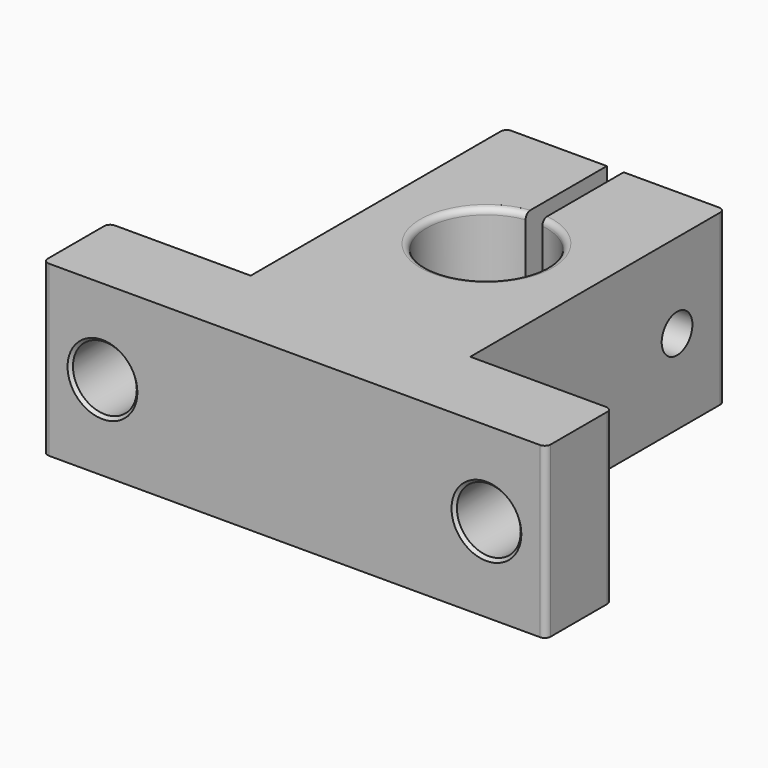
from build123d import *

# Parameters (mm, degrees)
F1_DEPTH = 14.1
F2_R     = 1.6
F3_DEPTH = 30.111
F4_R     = 4
F5_DEPTH = 4
F6_R     = 2.66
F7_DEPTH = 25
F8_R     = 2.125
F9_DEPTH = 5.85
F10_R    = 0.5
F11_SIZE = 0.25


with BuildPart() as f1:
    # F0 (on Top) → F1 (new body)
    with BuildSketch(Plane.XY):
        with BuildLine():
            ThreePointArc((0.7, 4.9507575178), (0, -5), (-0.7, 4.9507575178))
            Line((-0.7, 4.9507575178), (-0.7, 13.42))
            Line((-0.7, 13.42), (-9.15, 13.42))
            Line((-9.15, 13.42), (-9.15, -13.12))
            Line((-9.15, -13.12), (-20.96, -13.12))
            Line((-20.96, -13.12), (-20.96, -20))
            Line((-20.96, -20), (20.96, -20))
            Line((20.96, -20), (20.96, -13.12))
            Line((20.96, -13.12), (9.15, -13.12))
            Line((9.15, -13.12), (9.15, 13.42))
            Line((9.15, 13.42), (0.7, 13.42))
            Line((0.7, 13.42), (0.7, 4.9507575178))
        make_face()
    extrude(amount=F1_DEPTH)

    # F2 (on face) → F3 (cut, through all)
    with BuildSketch(Plane.YZ.offset(9.15)):
        with Locations((8.42, 7.05)):
            Circle(F2_R)
    extrude(amount=-F3_DEPTH, mode=Mode.SUBTRACT)

    # F4 (on face) → F5 (cut)
    with BuildSketch(Plane(origin=(-9.15, 0, 0), x_dir=(0, -1, 0), z_dir=(-1, 0, 0))):
        with Locations((-8.42, 7.05)):
            Circle(F4_R)
    extrude(amount=-F5_DEPTH, mode=Mode.SUBTRACT)

    # F6 (on face) → F7 (cut)
    with BuildSketch(Plane.XZ.offset(20)):
        with Locations((-16, 7.05)):
            Circle(F6_R)
        with Locations((16, 7.05)):
            Circle(F6_R)
    extrude(amount=-F7_DEPTH, mode=Mode.SUBTRACT)

    # F8 (on face) → F9 (cut, through all)
    with BuildSketch(Plane(origin=(-5.15, 0, 0), x_dir=(0, -1, 0), z_dir=(-1, 0, 0))):
        with Locations((-8.42, 7.05)):
            Circle(F8_R)
    extrude(amount=-F9_DEPTH, mode=Mode.SUBTRACT)

    # F10
    f10_edges = [f1.edges().sort_by_distance(p)[0] for p in [
        (-20.96, -13.12, 7.05),
        (-20.96, -20, 7.05),
        (20.96, -13.12, 7.05),
        (20.96, -20, 7.05),
        (9.15, 13.42, 7.05),
        (-9.15, 13.42, 7.05),
        (0, -5, 14.1),
        (0, -5, 0),
    ]]
    fillet(f10_edges, radius=F10_R)

    # F11
    f11_edges = [f1.edges().sort_by_distance(p)[0] for p in [
        (13.34, -20, 7.05),
        (18.66, -16.56, 7.05),
        (13.34, -13.12, 7.05),
        (-18.66, -20, 7.05),
        (-13.34, -16.56, 7.05),
        (-18.66, -13.12, 7.05),
    ]]
    chamfer(f11_edges, length=F11_SIZE)


solid = f1.part
